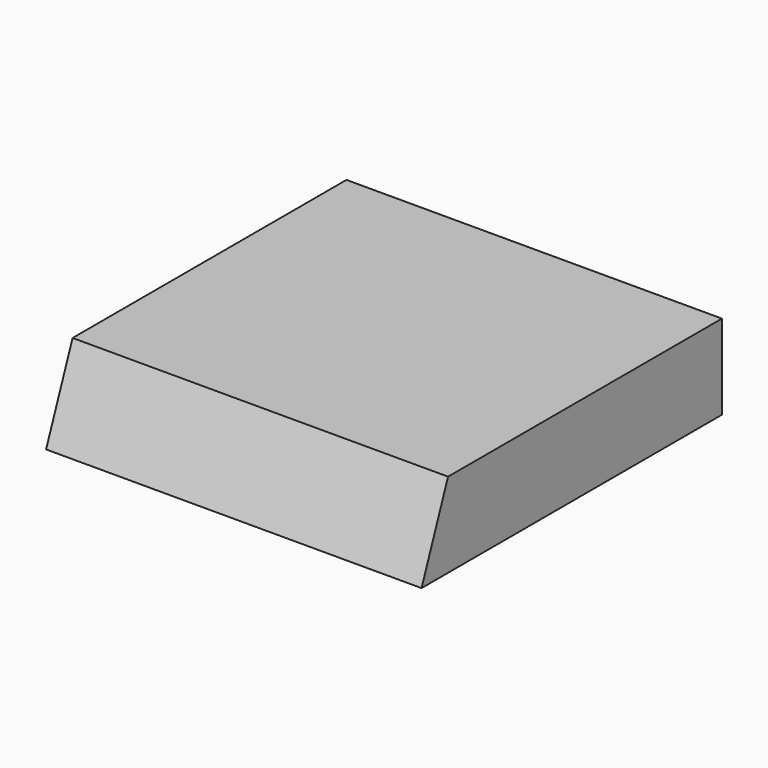
from build123d import *

# Parameters (mm, degrees)
F1_DEPTH = 51
F3_DEPTH = 10
F5_DEPTH = 10


with BuildPart() as f1:
    # F0 (on Right) → F1 (new body, symmetric)
    with BuildSketch(Plane.YZ):
        Polygon((-51, -11.5), (51, -11.5), (51, 11.5), (-42, 11.5), align=None)
    extrude(amount=F1_DEPTH, both=True)

    # F2 (on face) → F3 (cut)
    with BuildSketch(Plane(origin=(0, 51, 0), x_dir=(-1, 0, 0), z_dir=(0, 1, 0))):
        Polygon((-3.535534, -3.535534), (0, -5), (3.535534, -3.535534), (5, 0), (3.535534, 3.535534), (0, 5), (-3.535534, 3.535534), (-5, 0), align=None)
        Polygon((33.535534, 3.535534), (30, 5), (26.464466, 3.535534), (25, 0), (26.464466, -3.535534), (30, -5), (33.535534, -3.535534), (35, 0), align=None)
        Polygon((-25, 0), (-26.464466, 3.535534), (-30, 5), (-33.535534, 3.535534), (-35, 0), (-33.535534, -3.535534), (-30, -5), (-26.464466, -3.535534), align=None)
    extrude(amount=-F3_DEPTH, mode=Mode.SUBTRACT)

    # F4 (on face) → F5 (cut)
    with BuildSketch(Plane(origin=(-51, 0, 0), x_dir=(0, -1, 0), z_dir=(-1, 0, 0))):
        Polygon((-3.535534, -3.535534), (0, -5), (3.535534, -3.535534), (5, 0), (3.535534, 3.535534), (0, 5), (-3.535534, 3.535534), (-5, 0), align=None)
        Polygon((33.535534, 3.535534), (30, 5), (26.464466, 3.535534), (25, 0), (26.464466, -3.535534), (30, -5), (33.535534, -3.535534), (35, 0), align=None)
        Polygon((-25, 0), (-26.464466, 3.535534), (-30, 5), (-33.535534, 3.535534), (-35, 0), (-33.535534, -3.535534), (-30, -5), (-26.464466, -3.535534), align=None)
    extrude(amount=-F5_DEPTH, mode=Mode.SUBTRACT)


solid = f1.part
